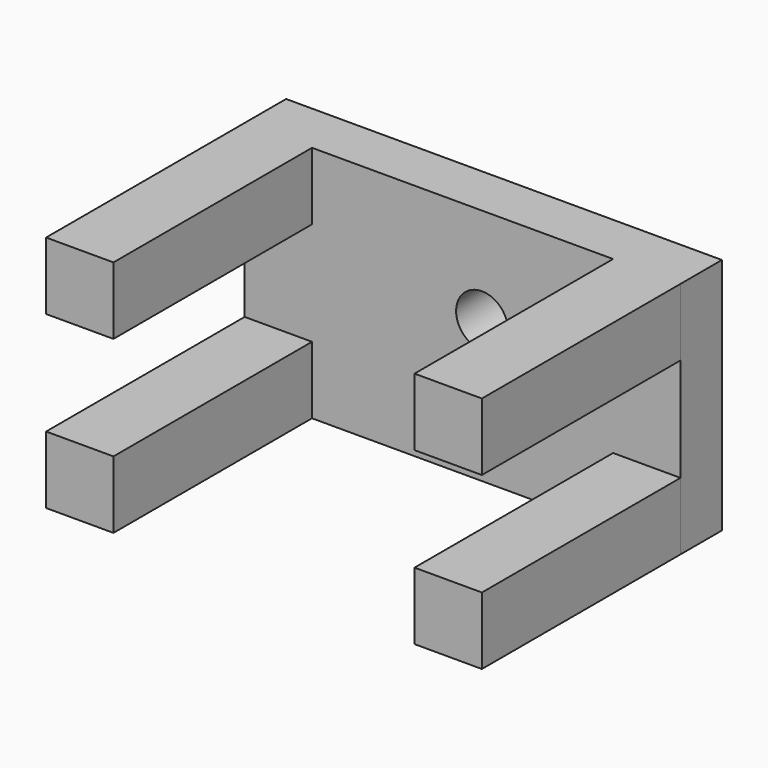
from build123d import *

# Parameters (mm, degrees)
F0_W     = 213.626973
F0_H     = 116.731882
F1_DEPTH = 25.4
F2_W     = 33.02
F2_H     = 33.02
F3_DEPTH = 121.666
F5_D     = 25.4


with BuildPart() as f1:
    # F0 (on Front) → F1 (new body)
    with BuildSketch(Plane.XZ):
        with Locations((-9.536925, -10.872088)):
            Rectangle(F0_W, F0_H)
    extrude(amount=F1_DEPTH)

    # F2 (on face) → F3 (join)
    with BuildSketch(Plane.XZ.offset(25.4)):
        with Locations((-99.840412, 30.983853)):
            Rectangle(F2_W, F2_H)
        with Locations((80.766561, 30.983853)):
            Rectangle(F2_W, F2_H)
        with Locations((80.766561, -52.728029)):
            Rectangle(F2_W, F2_H)
        with Locations((-99.840412, -52.728029)):
            Rectangle(F2_W, F2_H)
    extrude(amount=F3_DEPTH)

    # F5 (through all)
    with Locations(Plane(origin=(0, 0, 0), x_dir=(-1, 0, 0), z_dir=(0, 1, 0))):
        with Locations((0, 0)):
            Hole(F5_D / 2)


solid = f1.part
